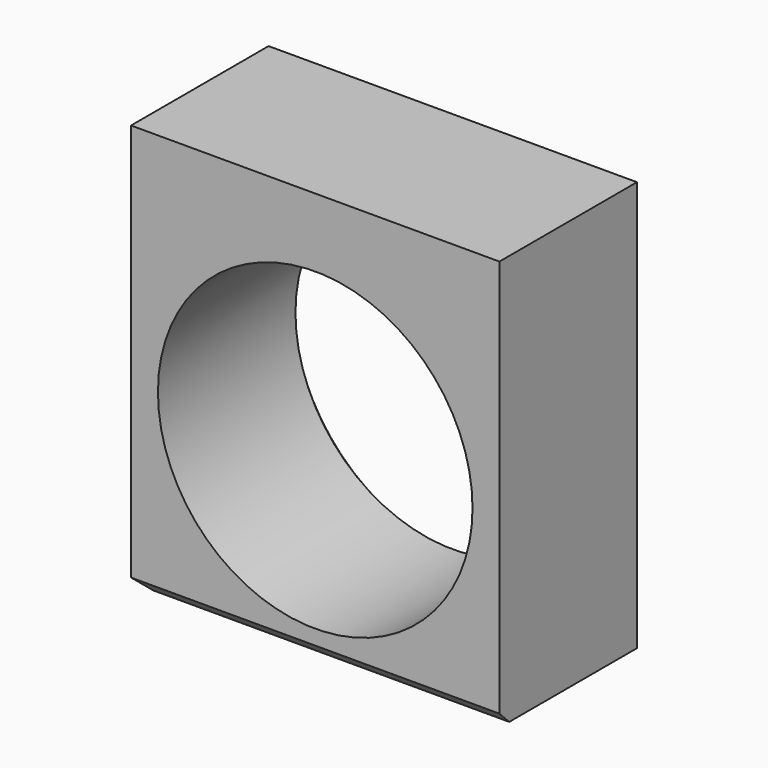
from build123d import *

# Parameters (mm, degrees)
F0_W     = 152.4
F0_H     = 169.731778
F1_DEPTH = 76.2
F2_R     = 65.070277
F3_DEPTH = 76.201
F4_SIZE  = 5.08


with BuildPart() as f1:
    # F0 (on Front) → F1 (new body)
    with BuildSketch(Plane.XZ):
        with Locations((0, 8.5725)):
            Rectangle(F0_W, F0_H)
    extrude(amount=F1_DEPTH)

    # F2 (on face) → F3 (cut, through all)
    with BuildSketch(Plane(origin=(0, 0, 0), x_dir=(-1, 0, 0), z_dir=(0, 1, 0))):
        Circle(F2_R)
    extrude(amount=-F3_DEPTH, mode=Mode.SUBTRACT)

    # F4
    f4_edges = [f1.edges().sort_by_distance(p)[0] for p in [
        (-76.2, 0, 8.5725),
        (0, 0, 93.438389),
        (76.2, 0, 8.5725),
        (0, 0, -76.293389),
        (65.070277, 0, 0),
        (0, -76.2, -76.293389),
        (-76.2, -38.1, -76.293389),
    ]]
    chamfer(f4_edges, length=F4_SIZE)


solid = f1.part
